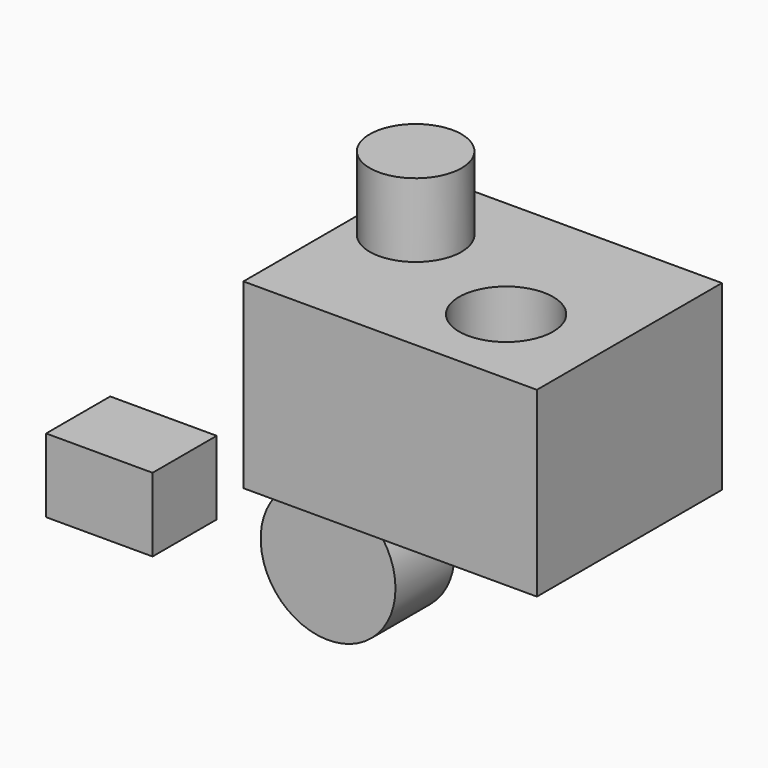
from build123d import *

# Parameters (mm, degrees)
F0_W     = 101.125885
F0_H     = 79.6872
F1_DEPTH = 62.738
F2_R     = 16.200604
F3_DEPTH = 41.148
F4_W     = 36.692955
F4_H     = 27.617682
F5_DEPTH = 25.4
F6_R     = 23.225544
F7_DEPTH = 25.4
F8_R     = 15.821961
F9_DEPTH = 25.4


with BuildPart() as f1:
    # F0 (on Top) → F1 (new body)
    with BuildSketch(Plane.XY):
        with Locations((11.326099, -1.011256)):
            Rectangle(F0_W, F0_H)
    extrude(amount=F1_DEPTH)

    # F2 (on face) → F3 (cut)
    with BuildSketch(Plane.XY.offset(62.738)):
        with Locations((27.910674, -11.647913)):
            Circle(F2_R)
    extrude(amount=-F3_DEPTH, mode=Mode.SUBTRACT)


with BuildPart() as f5:
    # F4 (on Top) → F5 (new body)
    with BuildSketch(Plane.XY):
        with Locations((-51.811132, -73.394669)):
            Rectangle(F4_W, F4_H)
    extrude(amount=F5_DEPTH)


with BuildPart() as f7:
    # F6 (on Front) → F7 (new body)
    with BuildSketch(Plane.XZ):
        with Locations((-42.749807, -40.590309)):
            Circle(F6_R)
    extrude(amount=-F7_DEPTH)


with BuildPart() as f9:
    # F8 (on face) → F9 (new body)
    with BuildSketch(Plane.XY.offset(62.738)):
        with Locations((-19.985897, 9.262312)):
            Circle(F8_R)
    extrude(amount=F9_DEPTH)


solid = Compound([f1.part, f5.part, f7.part, f9.part])
